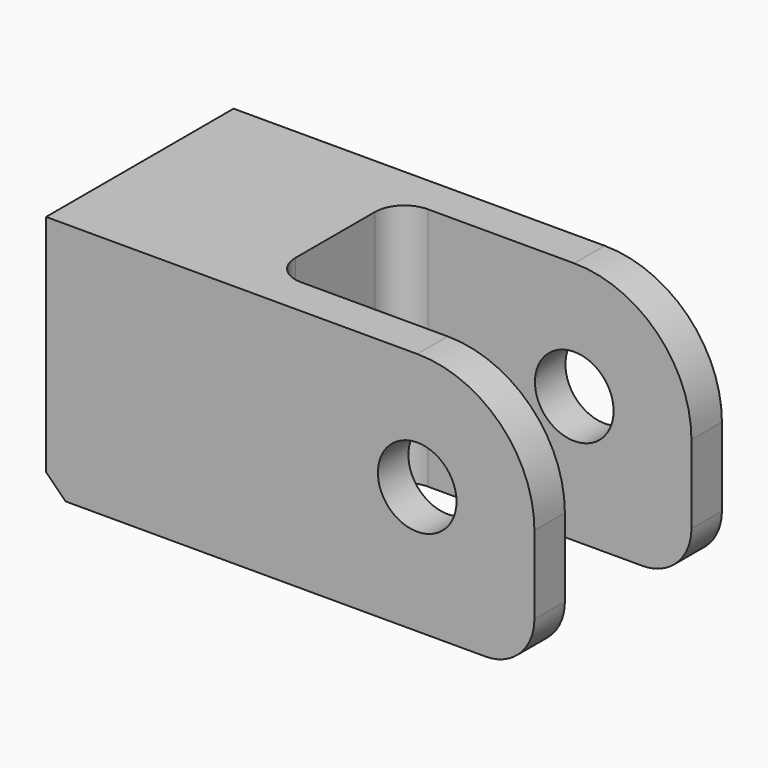
from build123d import *

# Parameters (mm, degrees)
F0_W          = 20
F0_H          = 25
F0_R          = 4.025
F1_DEPTH      = 12
F1_DEPTH_BACK = 12
F2_DEPTH      = 8.1
F2_DEPTH_BACK = 8.1
F3_R          = 3
F4_R          = 5
F6_D          = 8.4328
F6_DEPTH      = 30.794
F6_TIP        = 2.5334687141
F7_SIZE       = 2


with BuildPart() as f1:
    # F0 (on Front) → F1 (new body, two sides)
    with BuildSketch(Plane.XZ) as f1_sk:
        with Locations((10, 12.5)):
            Rectangle(F0_W, F0_H)
        with BuildLine():
            Line((20, 25), (20, 0))
            Line((20, 0), (50, 0))
            Line((50, 0), (50, 13))
            ThreePointArc((50, 13), (46.4852813742, 21.4852813742), (38, 25))
            Line((38, 25), (20, 25))
        make_face()
        with Locations((38, 13)):
            Circle(F0_R, mode=Mode.SUBTRACT)
        with BuildLine():
            Line((20, 25), (20, 0))
            Line((20, 0), (50, 0))
            Line((50, 0), (50, 13))
            ThreePointArc((50, 13), (46.4852813742, 21.4852813742), (38, 25))
            Line((38, 25), (20, 25))
        make_face()
        with Locations((38, 13)):
            Circle(F0_R, mode=Mode.SUBTRACT)
    extrude(amount=F1_DEPTH)
    extrude(f1_sk.sketch, amount=-F1_DEPTH_BACK)

    # F0 (on Front) → F2 (cut, two sides)
    with BuildSketch(Plane.XZ) as f2_sk:
        with BuildLine():
            Line((20, 25), (20, 0))
            Line((20, 0), (50, 0))
            Line((50, 0), (50, 13))
            ThreePointArc((50, 13), (46.4852813742, 21.4852813742), (38, 25))
            Line((38, 25), (20, 25))
        make_face()
        with Locations((38, 13)):
            Circle(F0_R, mode=Mode.SUBTRACT)
    extrude(amount=-F2_DEPTH, mode=Mode.SUBTRACT)
    extrude(f2_sk.sketch, amount=F2_DEPTH_BACK, mode=Mode.SUBTRACT)

    # F3
    f3_edges = [f1.edges().sort_by_distance(p)[0] for p in [
        (20, -8.1, 12.5),
        (20, 8.1, 12.5),
    ]]
    fillet(f3_edges, radius=F3_R)

    # F4
    f4_edges = [f1.edges().sort_by_distance(p)[0] for p in [
        (50, -10.05, 0),
        (50, 10.05, 0),
    ]]
    fillet(f4_edges, radius=F4_R)

    # F6
    with Locations(Plane(origin=(0, 0, 0), x_dir=(0, -1, 0), z_dir=(-1, 0, 0))):
        with Locations((0, 13.2)):
            Hole(F6_D / 2, depth=F6_DEPTH)
            with Locations((0, 0, -(F6_DEPTH + F6_TIP / 2))):  # 118° drill point
                Cone(0, F6_D / 2, F6_TIP, mode=Mode.SUBTRACT)

    # F7
    f7_edges = [f1.edges().sort_by_distance(p)[0] for p in [
        (0, 0, 0),
    ]]
    chamfer(f7_edges, length=F7_SIZE)


solid = f1.part
